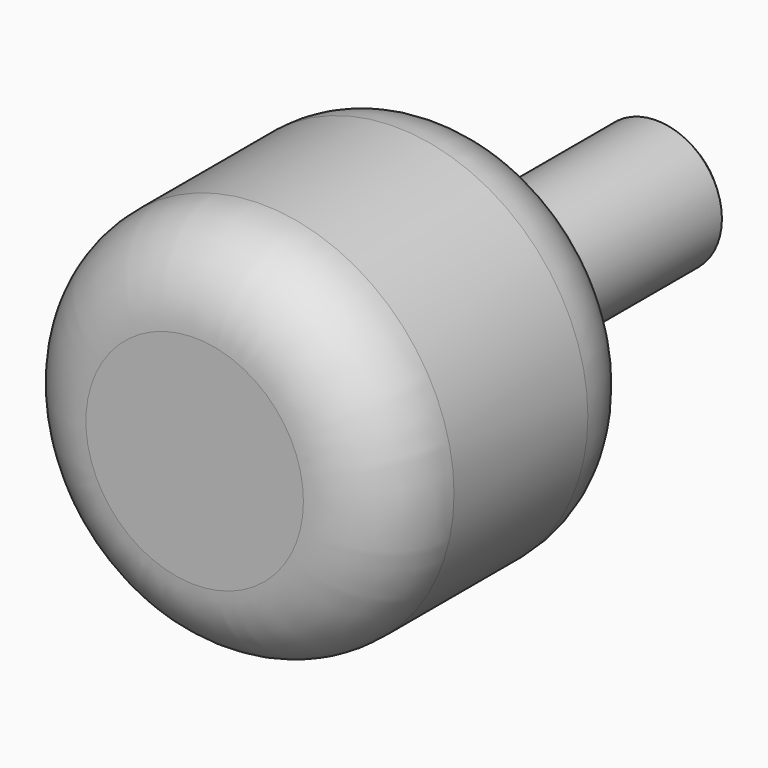
from build123d import *

# Parameters (mm, degrees)
F0_R     = 11.5
F1_DEPTH = 20
F2_R     = 5
F3_R     = 3.910161
F4_DEPTH = 15
F5_SIZE  = 0.5


with BuildPart() as f1:
    # F0 (on Front) → F1 (new body)
    with BuildSketch(Plane.XZ):
        Circle(F0_R)
    extrude(amount=F1_DEPTH)

    # F2
    f2_edges = [f1.edges().sort_by_distance(p)[0] for p in [
        (-11.5, -20, 0),
        (-11.5, 0, 0),
    ]]
    fillet(f2_edges, radius=F2_R)

    # F3 (on Front) → F4 (join)
    with BuildSketch(Plane.XZ):
        Circle(F3_R)
    extrude(amount=-F4_DEPTH)

    # F5
    f5_edges = [f1.edges().sort_by_distance(p)[0] for p in [
        (-3.910161, 15, 0),
    ]]
    chamfer(f5_edges, length=F5_SIZE)


solid = f1.part
